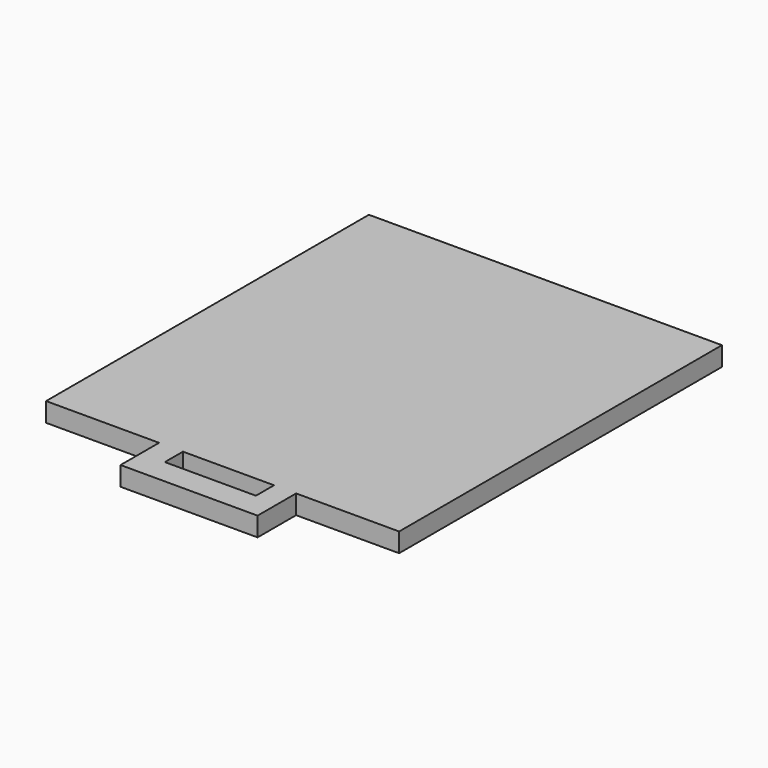
from build123d import *

# Parameters (mm, degrees)
F1_DEPTH = 19


with BuildPart() as f1:
    # F0 (on Top) → F1 (new body)
    with BuildSketch(Plane.XY):
        Polygon((175, -200), (175, 200), (-175, 200), (-175, -200), (-63.010015, -200), (-39.304942, -200), (50.9714, -200), (72.852336, -200), align=None)
        Polygon((72.852336, -247.727528), (72.852336, -200), (50.9714, -200), (50.9714, -222.442701), (-39.304942, -222.442701), (-39.304942, -200), (-63.010015, -200), (-63.010015, -247.727528), align=None)
    extrude(amount=F1_DEPTH)


solid = f1.part
